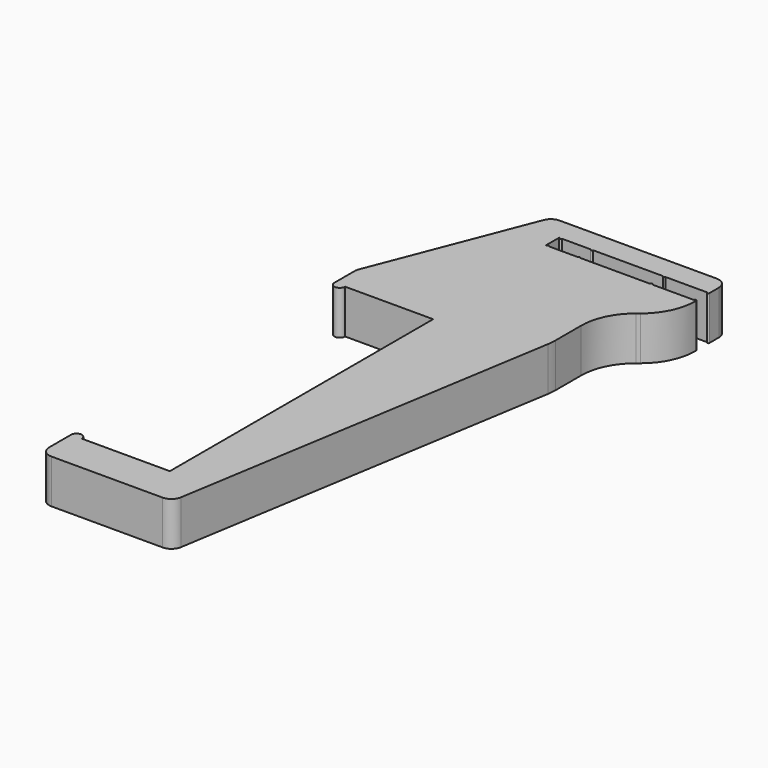
from build123d import *

# Parameters (mm, degrees)
F1_DEPTH = 4
F2_R     = 5
F3_R     = 1


with BuildPart() as f1:
    # F0 (on Top) → F1 (new body)
    with BuildSketch(Plane.XY):
        with BuildLine():
            Line((5.846258, 15), (0, 0))
            Line((0, 0), (0, -2.497575))
            ThreePointArc((0, -2.497575), (0.487616, -2.985192), (0.975233, -2.497575))
            Line((0.975233, -2.497575), (9, -2.497575))
            Line((9, -2.497575), (9, -32.497575))
            Line((9, -32.497575), (0.975233, -32.497575))
            ThreePointArc((0.975233, -32.497575), (0.487616, -32.009959), (0, -32.497575))
            Line((0, -32.497575), (0, -36))
            Line((0, -36), (12, -36))
            Line((12, -36), (17.846258, 0))
            Line((17.846258, 0), (17.846258, 5.706935))
            Line((17.846258, 5.706935), (21.846258, 8.917766))
            Line((21.846258, 8.917766), (21.846258, 11.413869))
            ThreePointArc((21.846258, 11.413869), (21.746258, 11.513869), (21.646258, 11.413869))
            Line((21.646258, 11.413869), (17.846258, 11.413869))
            ThreePointArc((17.846258, 11.413869), (17.746258, 11.513869), (17.646258, 11.413869))
            Line((17.646258, 11.413869), (11.250778, 11.413869))
            ThreePointArc((11.250778, 11.413869), (11.150778, 11.513869), (11.050778, 11.413869))
            Line((11.050778, 11.413869), (8.426733, 11.413869))
            ThreePointArc((8.426733, 11.413869), (8.326733, 11.513869), (8.226733, 11.413869))
            Line((8.226733, 11.413869), (8.153742, 11.413869))
            Line((8.153742, 11.413869), (8.153742, 12.913869))
            Line((8.153742, 12.913869), (8.226733, 12.913869))
            ThreePointArc((8.226733, 12.913869), (8.326733, 12.813869), (8.426733, 12.913869))
            Line((8.426733, 12.913869), (11.050778, 12.913869))
            ThreePointArc((11.050778, 12.913869), (11.150778, 12.813869), (11.250778, 12.913869))
            Line((11.250778, 12.913869), (17.646258, 12.913869))
            ThreePointArc((17.646258, 12.913869), (17.746258, 12.813869), (17.846258, 12.913869))
            Line((17.846258, 12.913869), (21.646258, 12.913869))
            ThreePointArc((21.646258, 12.913869), (21.746258, 12.813869), (21.846258, 12.913869))
            Line((21.846258, 12.913869), (21.846258, 15))
            Line((21.846258, 15), (17.846258, 15))
            Line((17.846258, 15), (5.846258, 15))
        make_face()
    extrude(amount=F1_DEPTH)

    # F2
    f2_edges = [f1.edges().sort_by_distance(p)[0] for p in [
        (21.846258, 8.917766, 2),
        (17.846258, 5.706935, 2),
        (17.846258, 0, 2),
    ]]
    fillet(f2_edges, radius=F2_R)

    # F3
    f3_edges = [f1.edges().sort_by_distance(p)[0] for p in [
        (21.846258, 15, 2),
        (5.846258, 15, 2),
        (0, 0, 2),
        (12, -36, 2),
        (0, -36, 2),
    ]]
    fillet(f3_edges, radius=F3_R)


solid = f1.part
